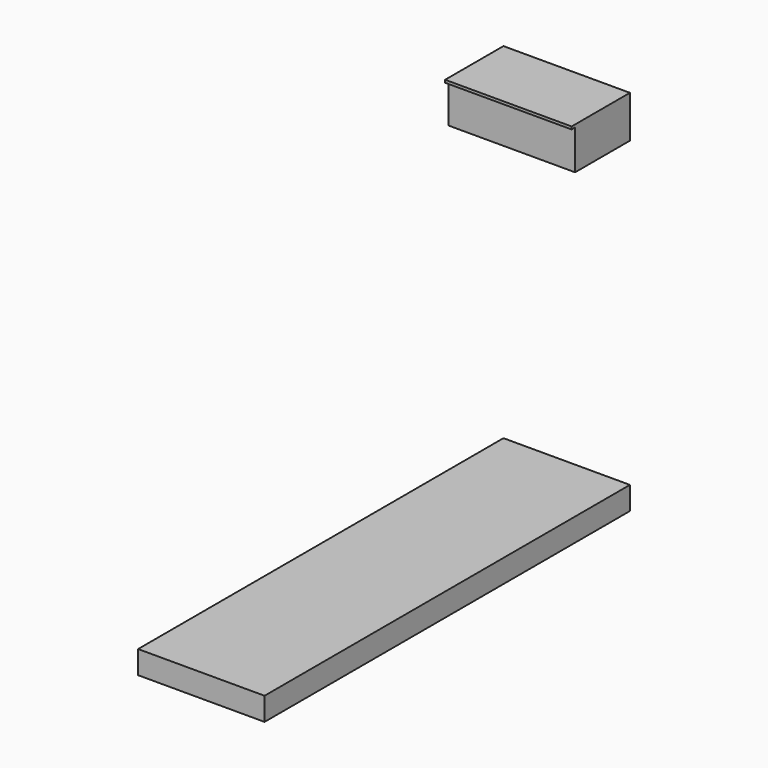
from build123d import *

# Parameters (mm, degrees)
F0_W     = 495.3
F0_H     = 304.8
F1_DEPTH = 914.4
F2_W     = 31.75
F2_H     = 19.05
F3_DEPTH = 914.4
F4_W     = 3302
F4_H     = 166.5514114483
F5_DEPTH = 914.4


with BuildPart() as f1:
    # F0 (on Right) → F1 (new body)
    with BuildSketch(Plane.YZ):
        with Locations((-247.65, 2343.15)):
            Rectangle(F0_W, F0_H)
    extrude(amount=-F1_DEPTH)

    # F2 (on face) → F3 (join, through all)
    with BuildSketch(Plane.YZ):
        with Locations((-511.175, 2486.025)):
            Rectangle(F2_W, F2_H)
    extrude(amount=-F3_DEPTH)


with BuildPart() as f5:
    # F4 (on Right) → F5 (new body)
    with BuildSketch(Plane.YZ):
        with Locations((-1651, -83.2757057242)):
            Rectangle(F4_W, F4_H)
    extrude(amount=-F5_DEPTH)


solid = Compound([f1.part, f5.part])
